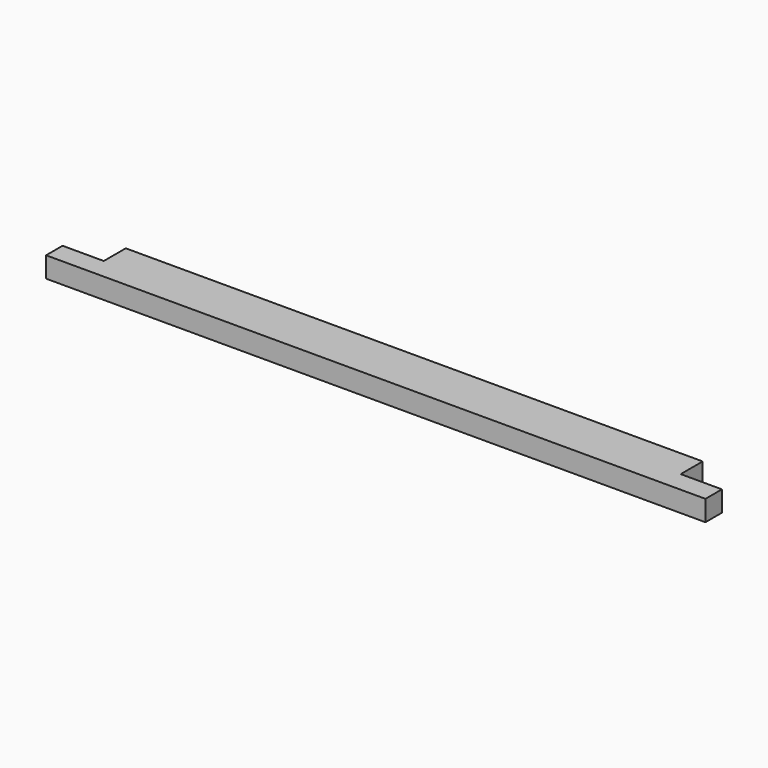
from build123d import *

# Parameters (mm, degrees)
F1_DEPTH = 19.05


with BuildPart() as f1:
    # F0 (on Top) → F1 (new body, symmetric)
    with BuildSketch(Plane.XY):
        Polygon((533.4, 88.9), (-533.4, 88.9), (-533.4, 38.1), (-609.6, 38.1), (-609.6, 0), (609.6, 0), (609.6, 38.1), (533.4, 38.1), align=None)
    extrude(amount=F1_DEPTH, both=True)


solid = f1.part
